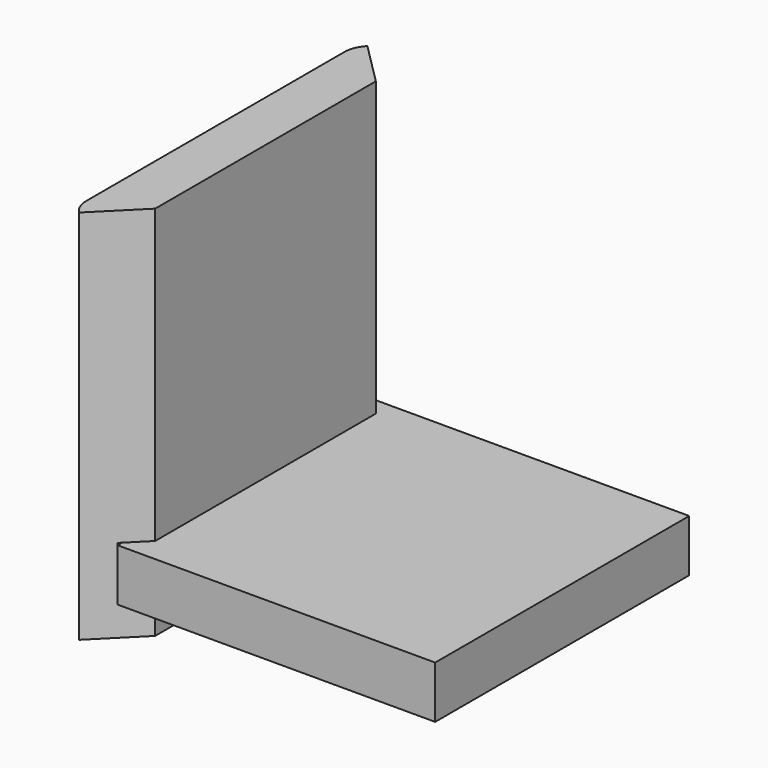
from build123d import *

# Parameters (mm, degrees)
F1_DEPTH = 90
F2_W     = 5
F2_H     = 13
F3_DEPTH = 44.7
F5_DEPTH = 12.5


with BuildPart() as f1:
    # F0 (on Top) → F1 (new body)
    with BuildSketch(Plane.XY):
        with BuildLine():
            ThreePointArc((-45, -38.6), (-44.512829, -41.049174), (-43.125483, -43.125483))
            Line((-43.125483, -43.125483), (-33, -33))
            Line((-33, -33), (-33, 33))
            Line((-33, 33), (-43.125483, 43.125483))
            ThreePointArc((-43.125483, 43.125483), (-44.512829, 41.049174), (-45, 38.6))
            Line((-45, 38.6), (-45, -38.6))
        make_face()
    extrude(amount=F1_DEPTH)

    # F2 (on Front) → F3 (cut, symmetric)
    with BuildSketch(Plane.XZ):
        with Locations((-35.484573, 13.5)):
            Rectangle(F2_W, F2_H)
    extrude(amount=F3_DEPTH, both=True, mode=Mode.SUBTRACT)


with BuildPart() as f5:
    # F4 (on face) → F5 (new body)
    with BuildSketch(Plane.XY.offset(7)):
        Polygon((-37.984573, 37.984573), (-37.984573, -37.984573), (-33, -33), (-33, 33), align=None)
        Polygon((-33, -33), (-37.984573, -37.984573), (37.984573, -37.984573), (37.984573, 37.984573), (-37.984573, 37.984573), (-33, 33), align=None)
    extrude(amount=F5_DEPTH)


solid = Compound([f1.part, f5.part])
